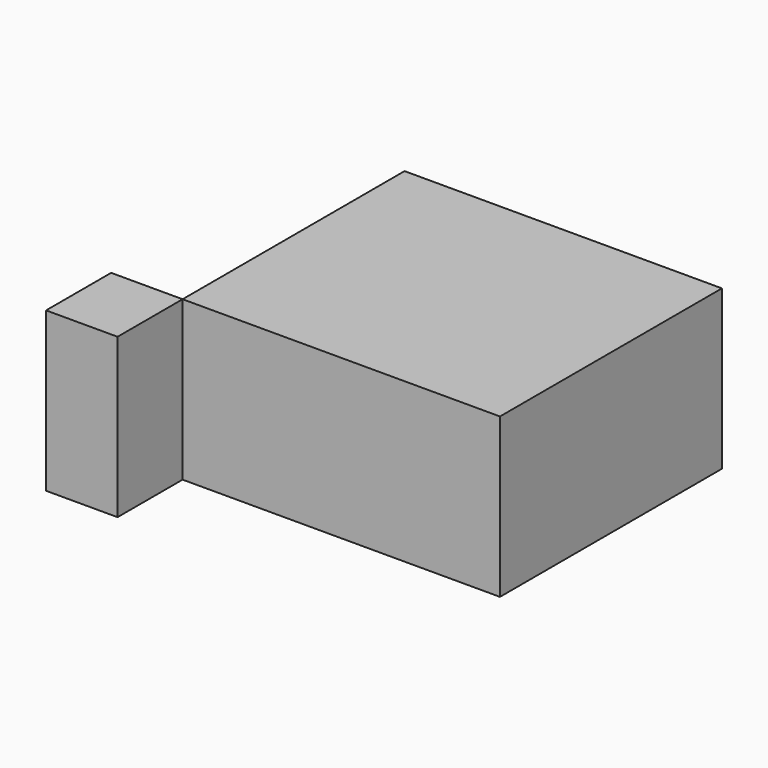
from build123d import *

# Parameters (mm, degrees)
F0_W     = 21.594529
F0_H     = 24.570726
F0_W_2   = 95.906663
F0_H_2   = 83.840344
F1_DEPTH = 48


with BuildPart() as f1:
    # F0 (on Top) → F1 (new body)
    with BuildSketch(Plane.XY):
        with Locations((-44.528211, -60.103569)):
            Rectangle(F0_W, F0_H)
        with Locations((14.222386, -5.898034)):
            Rectangle(F0_W_2, F0_H_2)
    extrude(amount=F1_DEPTH)


solid = f1.part
